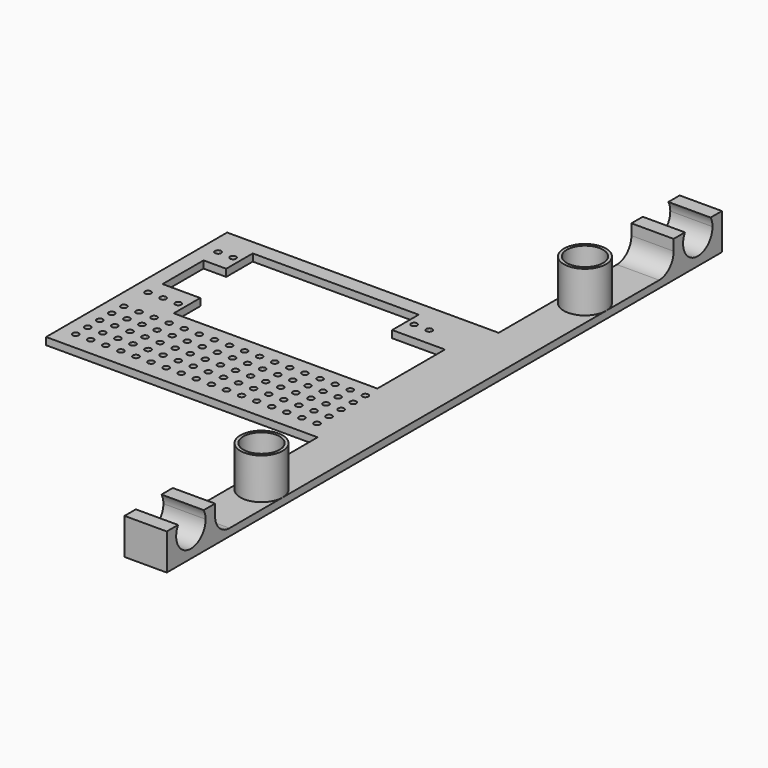
from build123d import *

# Parameters (mm, degrees)
F0_R     = 0.5
F0_W     = 7
F0_H     = 10
F0_R_2   = 3
F1_DEPTH = 1.2
F2_DEPTH = 6
F4_DEPTH = 25
F5_DEPTH = 8
F6_R     = 3
F7_R     = 3


with BuildPart() as f1:
    # F0 (on Top) → F1 (new body)
    with BuildSketch(Plane.XY):
        Polygon((-16.25, 17.5), (-22.5, 17.5), (-22.5, -17.5), (22.5, -17.5), (22.5, 17.5), (11.25, 17.5), (11.25, 12), (20, 12), (20, 3.5), (20, -2), (-13.75, -2), (-13.75, 3.5), (-20, 3.5), (-20, 12), (-16.25, 12), align=None)
        with Locations((-20, -14.5)):
            Circle(F0_R, mode=Mode.SUBTRACT)
        with Locations((-17.5, -14.5)):
            Circle(F0_R, mode=Mode.SUBTRACT)
        with Locations((-15, -14.5)):
            Circle(F0_R, mode=Mode.SUBTRACT)
        with Locations((-12.5, -14.5)):
            Circle(F0_R, mode=Mode.SUBTRACT)
        with Locations((-10, -14.5)):
            Circle(F0_R, mode=Mode.SUBTRACT)
        with Locations((-20, -12)):
            Circle(F0_R, mode=Mode.SUBTRACT)
        with Locations((-20, -9.5)):
            Circle(F0_R, mode=Mode.SUBTRACT)
        with Locations((-17.5, -12)):
            Circle(F0_R, mode=Mode.SUBTRACT)
        with Locations((-17.5, -9.5)):
            Circle(F0_R, mode=Mode.SUBTRACT)
        with Locations((-20, -7)):
            Circle(F0_R, mode=Mode.SUBTRACT)
        with Locations((-20, -4.5)):
            Circle(F0_R, mode=Mode.SUBTRACT)
        with Locations((-17.5, -7)):
            Circle(F0_R, mode=Mode.SUBTRACT)
        with Locations((-17.5, -4.5)):
            Circle(F0_R, mode=Mode.SUBTRACT)
        with Locations((-15, -12)):
            Circle(F0_R, mode=Mode.SUBTRACT)
        with Locations((-15, -9.5)):
            Circle(F0_R, mode=Mode.SUBTRACT)
        with Locations((-12.5, -12)):
            Circle(F0_R, mode=Mode.SUBTRACT)
        with Locations((-10, -12)):
            Circle(F0_R, mode=Mode.SUBTRACT)
        with Locations((-12.5, -9.5)):
            Circle(F0_R, mode=Mode.SUBTRACT)
        with Locations((-10, -9.5)):
            Circle(F0_R, mode=Mode.SUBTRACT)
        with Locations((-15, -7)):
            Circle(F0_R, mode=Mode.SUBTRACT)
        with Locations((-15, -4.5)):
            Circle(F0_R, mode=Mode.SUBTRACT)
        with Locations((-12.5, -7)):
            Circle(F0_R, mode=Mode.SUBTRACT)
        with Locations((-12.5, -4.5)):
            Circle(F0_R, mode=Mode.SUBTRACT)
        with Locations((-10, -7)):
            Circle(F0_R, mode=Mode.SUBTRACT)
        with Locations((-10, -4.5)):
            Circle(F0_R, mode=Mode.SUBTRACT)
        with Locations((-7.5, -14.5)):
            Circle(F0_R, mode=Mode.SUBTRACT)
        with Locations((-5, -14.5)):
            Circle(F0_R, mode=Mode.SUBTRACT)
        with Locations((-2.5, -14.5)):
            Circle(F0_R, mode=Mode.SUBTRACT)
        with Locations((0, -14.5)):
            Circle(F0_R, mode=Mode.SUBTRACT)
        with Locations((2.5, -14.5)):
            Circle(F0_R, mode=Mode.SUBTRACT)
        with Locations((-7.5, -12)):
            Circle(F0_R, mode=Mode.SUBTRACT)
        with Locations((-7.5, -9.5)):
            Circle(F0_R, mode=Mode.SUBTRACT)
        with Locations((-5, -12)):
            Circle(F0_R, mode=Mode.SUBTRACT)
        with Locations((-5, -9.5)):
            Circle(F0_R, mode=Mode.SUBTRACT)
        with Locations((-7.5, -7)):
            Circle(F0_R, mode=Mode.SUBTRACT)
        with Locations((-7.5, -4.5)):
            Circle(F0_R, mode=Mode.SUBTRACT)
        with Locations((-5, -7)):
            Circle(F0_R, mode=Mode.SUBTRACT)
        with Locations((-5, -4.5)):
            Circle(F0_R, mode=Mode.SUBTRACT)
        with Locations((-2.5, -12)):
            Circle(F0_R, mode=Mode.SUBTRACT)
        with Locations((0, -12)):
            Circle(F0_R, mode=Mode.SUBTRACT)
        with Locations((-2.5, -9.5)):
            Circle(F0_R, mode=Mode.SUBTRACT)
        with Locations((0, -9.5)):
            Circle(F0_R, mode=Mode.SUBTRACT)
        with Locations((2.5, -12)):
            Circle(F0_R, mode=Mode.SUBTRACT)
        with Locations((2.5, -9.5)):
            Circle(F0_R, mode=Mode.SUBTRACT)
        with Locations((-2.5, -7)):
            Circle(F0_R, mode=Mode.SUBTRACT)
        with Locations((-2.5, -4.5)):
            Circle(F0_R, mode=Mode.SUBTRACT)
        with Locations((0, -7)):
            Circle(F0_R, mode=Mode.SUBTRACT)
        with Locations((0, -4.5)):
            Circle(F0_R, mode=Mode.SUBTRACT)
        with Locations((2.5, -7)):
            Circle(F0_R, mode=Mode.SUBTRACT)
        with Locations((2.5, -4.5)):
            Circle(F0_R, mode=Mode.SUBTRACT)
        with Locations((5, -14.5)):
            Circle(F0_R, mode=Mode.SUBTRACT)
        with Locations((7.5, -14.5)):
            Circle(F0_R, mode=Mode.SUBTRACT)
        with Locations((10, -14.5)):
            Circle(F0_R, mode=Mode.SUBTRACT)
        with Locations((12.5, -14.5)):
            Circle(F0_R, mode=Mode.SUBTRACT)
        with Locations((15, -14.5)):
            Circle(F0_R, mode=Mode.SUBTRACT)
        with Locations((5, -12)):
            Circle(F0_R, mode=Mode.SUBTRACT)
        with Locations((5, -9.5)):
            Circle(F0_R, mode=Mode.SUBTRACT)
        with Locations((7.5, -12)):
            Circle(F0_R, mode=Mode.SUBTRACT)
        with Locations((7.5, -9.5)):
            Circle(F0_R, mode=Mode.SUBTRACT)
        with Locations((5, -7)):
            Circle(F0_R, mode=Mode.SUBTRACT)
        with Locations((5, -4.5)):
            Circle(F0_R, mode=Mode.SUBTRACT)
        with Locations((7.5, -7)):
            Circle(F0_R, mode=Mode.SUBTRACT)
        with Locations((7.5, -4.5)):
            Circle(F0_R, mode=Mode.SUBTRACT)
        with Locations((10, -12)):
            Circle(F0_R, mode=Mode.SUBTRACT)
        with Locations((12.5, -12)):
            Circle(F0_R, mode=Mode.SUBTRACT)
        with Locations((10, -9.5)):
            Circle(F0_R, mode=Mode.SUBTRACT)
        with Locations((12.5, -9.5)):
            Circle(F0_R, mode=Mode.SUBTRACT)
        with Locations((15, -12)):
            Circle(F0_R, mode=Mode.SUBTRACT)
        with Locations((15, -9.5)):
            Circle(F0_R, mode=Mode.SUBTRACT)
        with Locations((10, -7)):
            Circle(F0_R, mode=Mode.SUBTRACT)
        with Locations((10, -4.5)):
            Circle(F0_R, mode=Mode.SUBTRACT)
        with Locations((12.5, -7)):
            Circle(F0_R, mode=Mode.SUBTRACT)
        with Locations((12.5, -4.5)):
            Circle(F0_R, mode=Mode.SUBTRACT)
        with Locations((15, -7)):
            Circle(F0_R, mode=Mode.SUBTRACT)
        with Locations((15, -4.5)):
            Circle(F0_R, mode=Mode.SUBTRACT)
        with Locations((17.5, -14.5)):
            Circle(F0_R, mode=Mode.SUBTRACT)
        with Locations((20, -14.5)):
            Circle(F0_R, mode=Mode.SUBTRACT)
        with Locations((17.5, -12)):
            Circle(F0_R, mode=Mode.SUBTRACT)
        with Locations((17.5, -9.5)):
            Circle(F0_R, mode=Mode.SUBTRACT)
        with Locations((20, -12)):
            Circle(F0_R, mode=Mode.SUBTRACT)
        with Locations((20, -9.5)):
            Circle(F0_R, mode=Mode.SUBTRACT)
        with Locations((17.5, -7)):
            Circle(F0_R, mode=Mode.SUBTRACT)
        with Locations((17.5, -4.5)):
            Circle(F0_R, mode=Mode.SUBTRACT)
        with Locations((20, -7)):
            Circle(F0_R, mode=Mode.SUBTRACT)
        with Locations((20, -4.5)):
            Circle(F0_R, mode=Mode.SUBTRACT)
        with Locations((-20, 0.5)):
            Circle(F0_R, mode=Mode.SUBTRACT)
        with Locations((-17.5, 0.5)):
            Circle(F0_R, mode=Mode.SUBTRACT)
        with Locations((-15, 0.5)):
            Circle(F0_R, mode=Mode.SUBTRACT)
        with Locations((-20, 15)):
            Circle(F0_R, mode=Mode.SUBTRACT)
        with Locations((-17.5, 15)):
            Circle(F0_R, mode=Mode.SUBTRACT)
        with Locations((12.5, 15)):
            Circle(F0_R, mode=Mode.SUBTRACT)
        with Locations((15, 15)):
            Circle(F0_R, mode=Mode.SUBTRACT)
        with BuildLine():
            Line((22.5, 17.5), (22.5, -17.5))
            Line((22.5, -17.5), (22.5, -33.5))
            ThreePointArc((22.5, -33.5), (26, -30), (29.5, -33.5))
            Line((29.5, -33.5), (29.5, -2))
            Line((29.5, -2), (29.5, 2))
            Line((29.5, 2), (29.5, 33.5))
            ThreePointArc((29.5, 33.5), (26, 30), (22.5, 33.5))
            Line((22.5, 33.5), (22.5, 20))
            Line((22.5, 20), (22.5, 17.5))
        make_face()
        Polygon((-22.5, 20), (-22.5, 17.5), (-16.25, 17.5), (11.25, 17.5), (22.5, 17.5), (22.5, 20), align=None)
        with BuildLine():
            Line((22.5, 47.5), (22.5, 33.5))
            ThreePointArc((22.5, 33.5), (26, 37), (29.5, 33.5))
            Line((29.5, 33.5), (29.5, 47.5))
            Line((29.5, 47.5), (22.5, 47.5))
        make_face()
        with BuildLine():
            ThreePointArc((29.5, -33.5), (26, -37), (22.5, -33.5))
            Line((22.5, -33.5), (22.5, -47.5))
            Line((22.5, -47.5), (29.5, -47.5))
            Line((29.5, -47.5), (29.5, -33.5))
        make_face()
        with Locations((26, -52.5)):
            Rectangle(F0_W, F0_H)
        with Locations((26, 52.5)):
            Rectangle(F0_W, F0_H)
        with BuildLine():
            ThreePointArc((29.5, 33.5), (26, 37), (22.5, 33.5))
            ThreePointArc((22.5, 33.5), (26, 30), (29.5, 33.5))
        make_face()
        with Locations((26, 33.5)):
            Circle(F0_R_2, mode=Mode.SUBTRACT)
        with BuildLine():
            ThreePointArc((29.5, -33.5), (26, -30), (22.5, -33.5))
            ThreePointArc((22.5, -33.5), (26, -37), (29.5, -33.5))
        make_face()
        with Locations((26, -33.5)):
            Circle(F0_R_2, mode=Mode.SUBTRACT)
        with Locations((26, 33.5)):
            Circle(F0_R_2)
        with Locations((26, 32)):
            Circle(F0_R, mode=Mode.SUBTRACT)
        with Locations((26, 35)):
            Circle(F0_R, mode=Mode.SUBTRACT)
        with Locations((26, -33.5)):
            Circle(F0_R_2)
        with Locations((26, -35)):
            Circle(F0_R, mode=Mode.SUBTRACT)
        with Locations((26, -32)):
            Circle(F0_R, mode=Mode.SUBTRACT)
    extrude(amount=F1_DEPTH)

    # F0 (on Top) → F2 (join)
    with BuildSketch(Plane.XY):
        with Locations((26, 52.5)):
            Rectangle(F0_W, F0_H)
        with Locations((26, -52.5)):
            Rectangle(F0_W, F0_H)
    extrude(amount=F2_DEPTH)

    # F3 (on face) → F4 (cut)
    with BuildSketch(Plane.YZ.offset(29.5)):
        with BuildLine():
            ThreePointArc((49.844345655, 6), (51.7245149106, 1.5502334201), (55.55, 4.5))
            ThreePointArc((55.55, 4.5), (55.4497665799, 5.2754850894), (55.155654345, 6))
            Line((55.155654345, 6), (49.844345655, 6))
        make_face()
        with BuildLine():
            Line((-49.844345655, 6), (-55.155654345, 6))
            ThreePointArc((-55.155654345, 6), (-53.2754850894, 1.5502334201), (-49.45, 4.5))
            ThreePointArc((-49.45, 4.5), (-49.5502334201, 5.2754850894), (-49.844345655, 6))
        make_face()
    extrude(amount=-F4_DEPTH, mode=Mode.SUBTRACT)

    # F0 (on Top) → F5 (join)
    with BuildSketch(Plane.XY):
        with BuildLine():
            ThreePointArc((29.5, 33.5), (26, 37), (22.5, 33.5))
            ThreePointArc((22.5, 33.5), (26, 30), (29.5, 33.5))
        make_face()
        with Locations((26, 33.5)):
            Circle(F0_R_2, mode=Mode.SUBTRACT)
        with BuildLine():
            ThreePointArc((29.5, -33.5), (26, -30), (22.5, -33.5))
            ThreePointArc((22.5, -33.5), (26, -37), (29.5, -33.5))
        make_face()
        with Locations((26, -33.5)):
            Circle(F0_R_2, mode=Mode.SUBTRACT)
    extrude(amount=F5_DEPTH)

    # F6
    f6_edges = [f1.edges().sort_by_distance(p)[0] for p in [
        (26, 47.5, 1.2),
    ]]
    fillet(f6_edges, radius=F6_R)

    # F7
    f7_edges = [f1.edges().sort_by_distance(p)[0] for p in [
        (26, -47.5, 1.2),
    ]]
    fillet(f7_edges, radius=F7_R)


solid = f1.part
